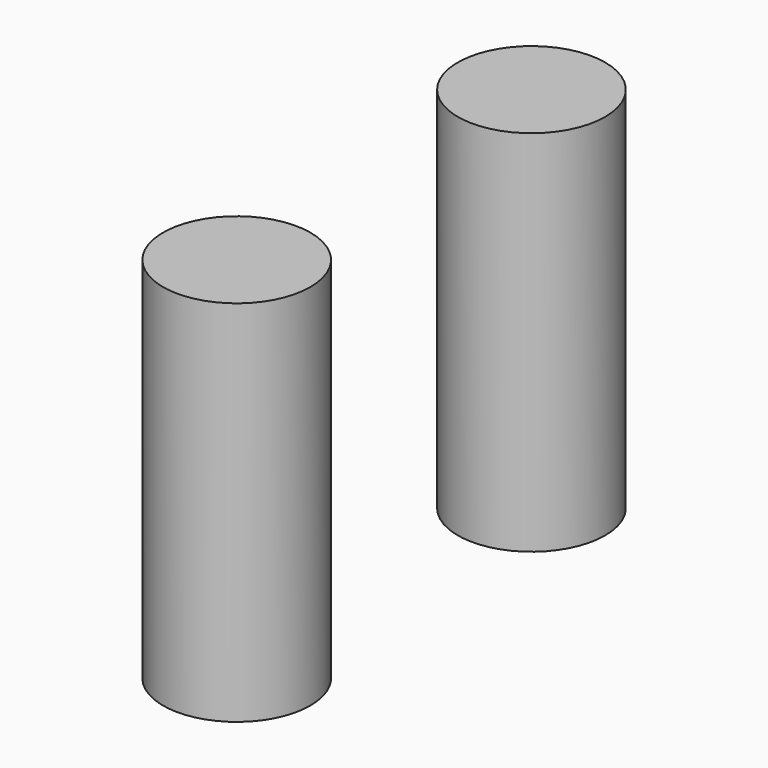
from build123d import *

# Parameters (mm, degrees)
CYLINDER001_R     = 2
CYLINDER001_DEPTH = 10
CYLINDER_R        = 2
CYLINDER_DEPTH    = 10


with BuildPart() as block_hole2:
    # Cylinder001 → Cylinder001 (new body)
    with BuildSketch(Plane(origin=(0, 10, 0), x_dir=(1, 0, 0), z_dir=(0, 0, 1))):
        Circle(CYLINDER001_R)
    extrude(amount=CYLINDER001_DEPTH)


with BuildPart() as block_holes_c:
    # Cylinder → Cylinder (new body)
    with BuildSketch(Plane.XY):
        Circle(CYLINDER_R)
    extrude(amount=CYLINDER_DEPTH)

    # Fusion: union block_hole2
    add(block_hole2.part)


solid = block_holes_c.part
